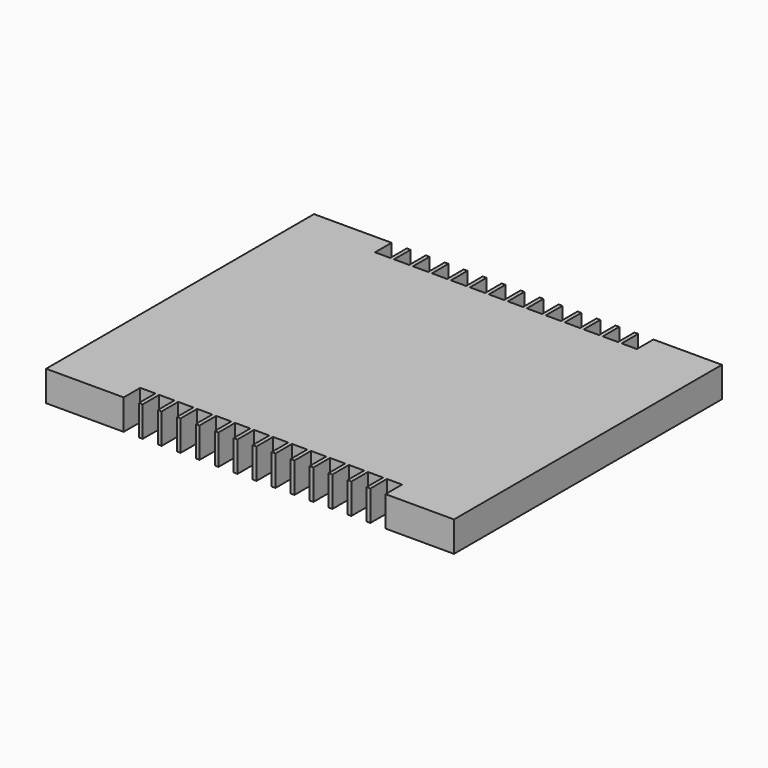
from build123d import *

# Parameters (mm, degrees)
F0_W     = 21.5
F0_H     = 17.65
F1_DEPTH = 1.6
F3_W     = 0.8
F3_H     = 1.0909089439
F4_DEPTH = 25


with BuildPart() as f1:
    # F0 (on Top) → F1 (new body)
    with BuildSketch(Plane.XY):
        Rectangle(F0_W, F0_H)
    extrude(amount=F1_DEPTH)

    # F3 (on offset) → F4 (cut)
    with BuildSketch(Plane.XY.offset(1.635)):
        with Locations((-6.26, 8.279545528)):
            Rectangle(F3_W, F3_H)
        with Locations((-5.26, 8.279545528)):
            Rectangle(F3_W, F3_H)
        with Locations((-4.26, 8.279545528)):
            Rectangle(F3_W, F3_H)
        with Locations((-3.26, 8.279545528)):
            Rectangle(F3_W, F3_H)
        with Locations((-2.26, 8.279545528)):
            Rectangle(F3_W, F3_H)
        with Locations((-1.26, 8.279545528)):
            Rectangle(F3_W, F3_H)
        with Locations((-0.26, 8.279545528)):
            Rectangle(F3_W, F3_H)
        with Locations((0.74, 8.279545528)):
            Rectangle(F3_W, F3_H)
        with Locations((1.74, 8.279545528)):
            Rectangle(F3_W, F3_H)
        with Locations((2.74, 8.279545528)):
            Rectangle(F3_W, F3_H)
        with Locations((3.74, 8.279545528)):
            Rectangle(F3_W, F3_H)
        with Locations((4.74, 8.279545528)):
            Rectangle(F3_W, F3_H)
        with Locations((5.74, 8.279545528)):
            Rectangle(F3_W, F3_H)
        with Locations((6.74, 8.279545528)):
            Rectangle(F3_W, F3_H)
        with Locations((-6.26, -8.279545528)):
            Rectangle(F3_W, F3_H)
        with Locations((3.74, -8.279545528)):
            Rectangle(F3_W, F3_H)
        with Locations((6.74, -8.279545528)):
            Rectangle(F3_W, F3_H)
        with Locations((-1.26, -8.279545528)):
            Rectangle(F3_W, F3_H)
        with Locations((1.74, -8.279545528)):
            Rectangle(F3_W, F3_H)
        with Locations((4.74, -8.279545528)):
            Rectangle(F3_W, F3_H)
        with Locations((-4.26, -8.279545528)):
            Rectangle(F3_W, F3_H)
        with Locations((-5.26, -8.279545528)):
            Rectangle(F3_W, F3_H)
        with Locations((5.74, -8.279545528)):
            Rectangle(F3_W, F3_H)
        with Locations((0.74, -8.279545528)):
            Rectangle(F3_W, F3_H)
        with Locations((-3.26, -8.279545528)):
            Rectangle(F3_W, F3_H)
        with Locations((-0.26, -8.279545528)):
            Rectangle(F3_W, F3_H)
        with Locations((-2.26, -8.279545528)):
            Rectangle(F3_W, F3_H)
        with Locations((2.74, -8.279545528)):
            Rectangle(F3_W, F3_H)
    extrude(amount=-F4_DEPTH, mode=Mode.SUBTRACT)


solid = f1.part
